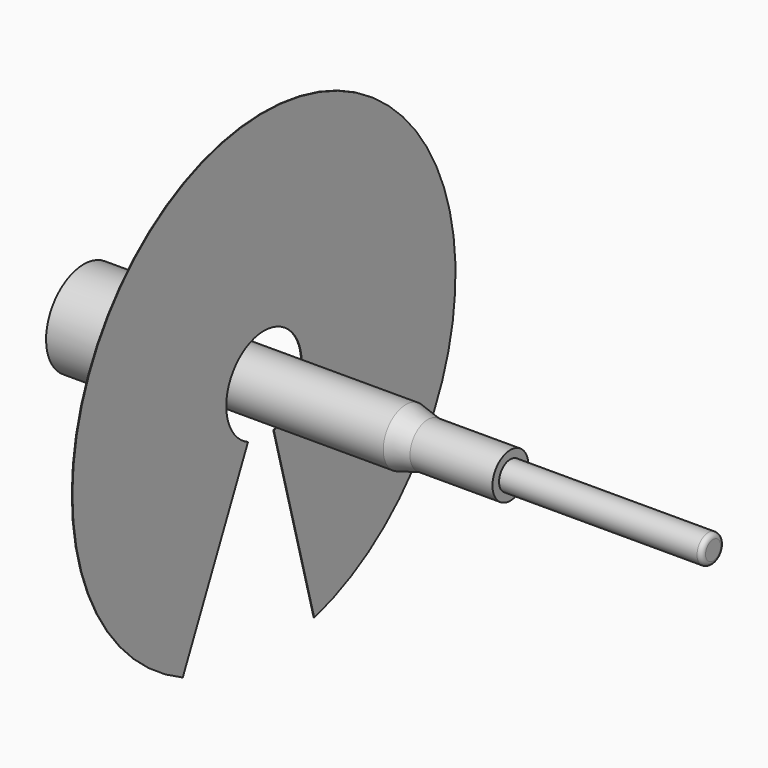
from build123d import *

# Parameters (mm, degrees)
F2_R     = 2
F5_DEPTH = 0.254


with BuildPart() as f1:
    # F0 (on Front) → F1 (revolve)
    with BuildSketch(Plane.XZ):
        with BuildLine():
            Line((0, 0), (267, 0))
            Line((267, 0), (267, 6))
            Line((267, 6), (181, 6))
            Line((181, 6), (181, 9.5))
            Line((181, 9.5), (146, 9.5))
            Line((146, 9.5), (136.669873, 12))
            Line((136.669873, 12), (46.669873, 12))
            ThreePointArc((46.669873, 12), (44.341818, 16.839471), (40, 20))
            Line((40, 20), (0, 20))
            Line((0, 20), (0, 0))
        make_face()
    revolve(axis=Axis((133.5, 0, 0), (1, 0, 0)))

    # F2
    f2_edges = [f1.edges().sort_by_distance(p)[0] for p in [
        (267, 0, -6),
    ]]
    fillet(f2_edges, radius=F2_R)


with BuildPart() as f5:
    # F4 (on offset) → F5 (new body)
    with BuildSketch(Plane.YZ.offset(76.2)):
        with BuildLine():
            ThreePointArc((20, 0), (15.890263, -12.144939), (5.250046, -19.298627))
            Line((5.250046, -19.298627), (26.670233, -98.037027))
            ThreePointArc((26.670233, -98.037027), (8.734833, 101.223825), (-43.070592, -92.018934))
            Line((-43.070592, -92.018934), (-8.478463, -18.113963))
            ThreePointArc((-8.478463, -18.113963), (-16.875563, -10.733842), (-20, 0))
            ThreePointArc((-20, 0), (-18.700472, 7.091711), (-14.970764, 13.261833))
            ThreePointArc((-14.970764, 13.261833), (-8.208634, 18.237827), (0, 20))
            ThreePointArc((0, 20), (8.235029, 18.225924), (15.009101, 13.21843))
            ThreePointArc((15.009101, 13.21843), (18.710719, 7.06463), (20, 0))
        make_face()
    extrude(amount=F5_DEPTH)


solid = Compound([f1.part, f5.part])
